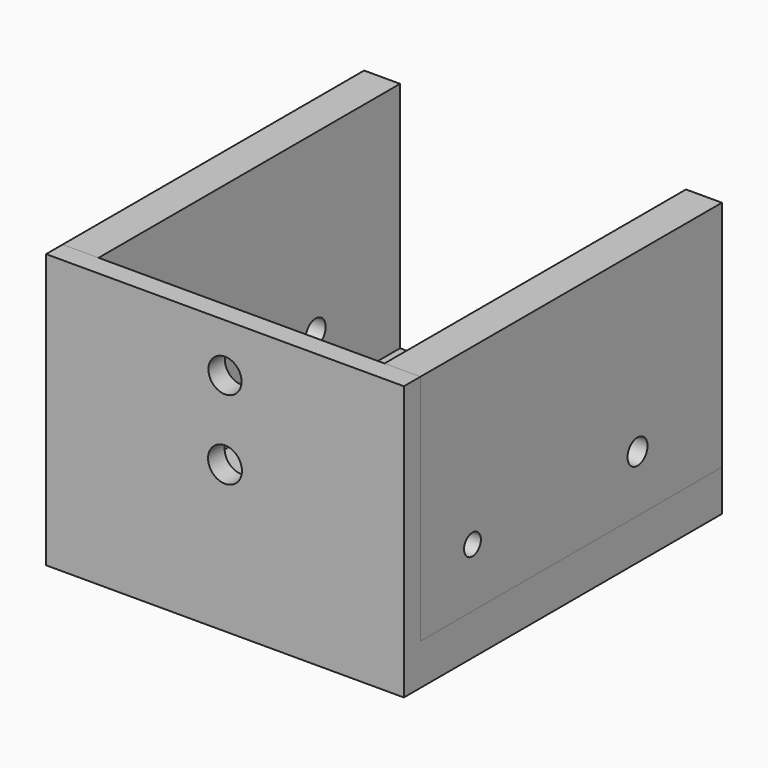
from build123d import *

# Parameters (mm, degrees)
F0_W     = 12.725245
F0_H     = 82.448957
F1_DEPTH = 140.78806
F2_R     = 3.719934
F2_R_2   = 4.427016
F3_DEPTH = 151.83997
F4_W     = 126.722186
F4_H     = 97.029957
F5_DEPTH = 7.32694
F6_R     = 5.996382
F6_R_2   = 5.875065
F7_DEPTH = 25.4
F8_R     = 5.08
F9_DEPTH = 25.4


with BuildPart() as f1:
    # F0 (on Front) → F1 (new body)
    with BuildSketch(Plane.XZ):
        with Locations((-56.99847, 48.514978)):
            Rectangle(F0_W, F0_H)
        Polygon((-63.361093, -7.2905), (63.361093, -7.2905), (63.361093, 7.2905), (50.635848, 7.2905), (-50.635848, 7.2905), (-63.361093, 7.2905), align=None)
        with Locations((56.99847, 48.514978)):
            Rectangle(F0_W, F0_H)
    extrude(amount=F1_DEPTH)

    # F2 (on face) → F3 (cut)
    with BuildSketch(Plane.YZ.offset(63.361093)):
        with Locations((-110.430785, 28.087409)):
            Circle(F2_R)
        with Locations((-37.363701, 27.33672)):
            Circle(F2_R_2)
    extrude(amount=-F3_DEPTH, mode=Mode.SUBTRACT)

    # F4 (on face) → F5 (join)
    with BuildSketch(Plane.XZ.offset(140.78806)):
        with Locations((0, 41.224479)):
            Rectangle(F4_W, F4_H)
    extrude(amount=-F5_DEPTH)

    # F6 (on face) → F7 (cut)
    with BuildSketch(Plane.XZ.offset(140.78806)):
        with Locations((0, 44.727694)):
            Circle(F6_R)
        with Locations((0, 72.503202)):
            Circle(F6_R_2)
    extrude(amount=-F7_DEPTH, mode=Mode.SUBTRACT)

    # F8 (on face) → F9 (cut)
    with BuildSketch(Plane(origin=(0, 0, -7.2905), x_dir=(1, 0, 0), z_dir=(0, 0, -1))):
        with Locations((30.027568, 102.298323)):
            Circle(F8_R)
        with Locations((30.027568, 38.489737)):
            Circle(F8_R)
        with Locations((-30.027568, 38.489737)):
            Circle(F8_R)
        with Locations((-30.027568, 102.298323)):
            Circle(F8_R)
    extrude(amount=-F9_DEPTH, mode=Mode.SUBTRACT)


solid = f1.part
